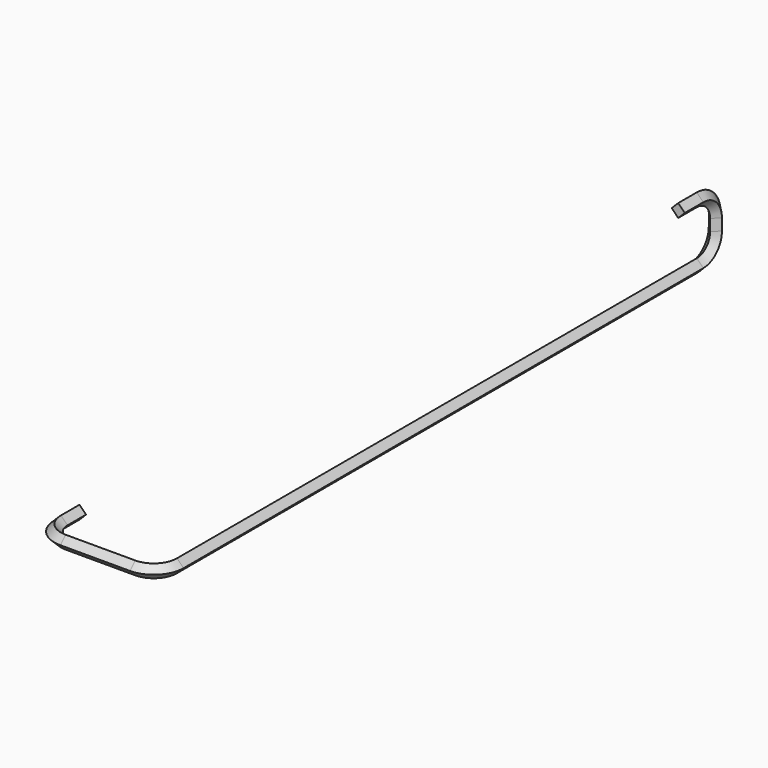
from build123d import *


with BuildPart() as f4:
    # F4: sweep along a path in F0, F2
    with BuildLine(Plane.XY) as f4_path:
        Line((0, 0), (0, -20))
        ThreePointArc((0, -20), (5.8578643763, -34.1421356237), (20, -40))
        Line((20, -40), (80, -40))
        ThreePointArc((80, -40), (94.1421356237, -34.1421356237), (100, -20))
        Line((100, -20), (100, 540))
    with BuildLine(Plane.YZ.offset(100)) as f4_path_2:
        ThreePointArc((540, 0), (554.1421356237, 5.8578643763), (560, 20))
        Line((560, 20), (560, 30))
        ThreePointArc((560, 30), (554.1421356237, 44.1421356237), (540, 50))
        Line((540, 50), (520, 50))
    # F3 (on Front) → F4 (sweep)
    with BuildSketch(Plane.XZ):
        Polygon((0, -5.6568542495), (5.6568542495, 0), (0, 5.6568542495), (-5.6568542495, 0), align=None)
    sweep(path=f4_path.line + f4_path_2.line)


solid = f4.part
